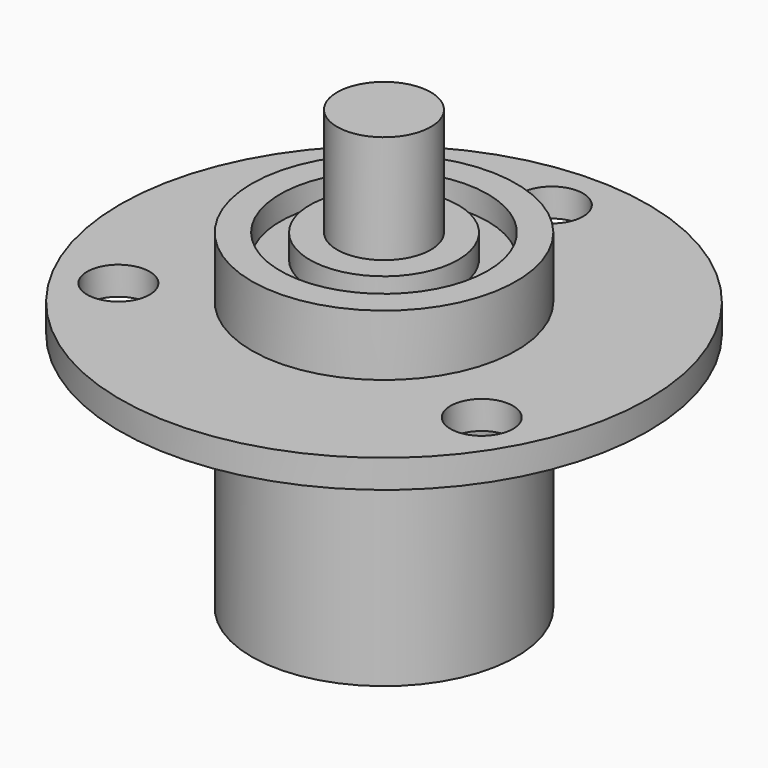
from build123d import *

# Parameters (mm, degrees)
F2_R     = 2.6
F3_DEPTH = 2.35
F4_R     = 8.635865
F4_R_2   = 6.173243
F5_DEPTH = 2


with BuildPart() as f1:
    # F0 (on Front) → F1 (revolve)
    with BuildSketch(Plane.XZ):
        Polygon((-3.9, 7.43), (-11, 7.43), (-11, 2.35), (-21.95, 2.35), (-21.95, 0), (-11, 0), (-11, -20.07), (0, -20.07), (0, 16.43), (-3.9, 16.43), align=None)
    revolve(axis=Axis((0, 0, -1.82), (0, 0, -1)))

    # F2 (on face) → F3 (cut, through all)
    with BuildSketch(Plane.XY.offset(2.35)):
        with Locations((0, 17.45)):
            Circle(F2_R)
        with Locations((15.112143, -8.725)):
            Circle(F2_R)
        with Locations((-15.112143, -8.725)):
            Circle(F2_R)
    extrude(amount=-F3_DEPTH, mode=Mode.SUBTRACT)

    # F4 (on face) → F5 (cut)
    with BuildSketch(Plane.XY.offset(7.43)):
        Circle(F4_R)
        Circle(F4_R_2, mode=Mode.SUBTRACT)
    extrude(amount=-F5_DEPTH, mode=Mode.SUBTRACT)


solid = f1.part
